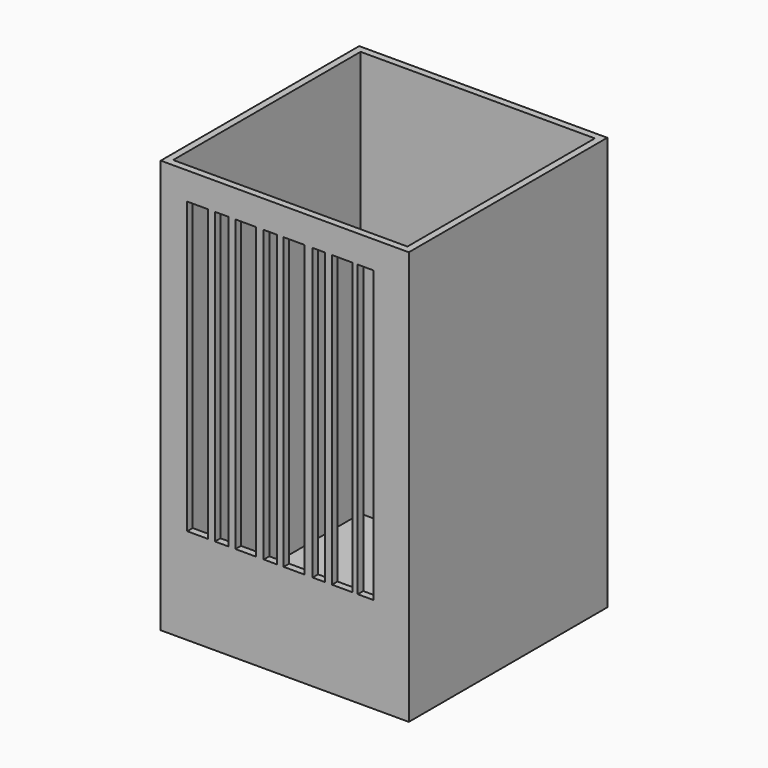
from build123d import *

# Parameters (mm, degrees)
F0_W     = 180
F0_H     = 300
F1_DEPTH = 180
F2_T     = -5
F3_W     = 15
F3_H     = 210.58443
F3_W_2   = 9.852498
F3_W_3   = 9.454142
F3_W_4   = 9.030989
F3_W_5   = 11.25
F4_DEPTH = 25


with BuildPart() as f1:
    # F0 (on Front) → F1 (new body)
    with BuildSketch(Plane.XZ):
        with Locations((-52.950007, -2.163574)):
            Rectangle(F0_W, F0_H)
    extrude(amount=F1_DEPTH)

    # F2
    f2_openings = [f1.faces().sort_by_distance(p)[0] for p in [
        (-52.950007, -90, 147.836426),
    ]]
    offset(amount=F2_T, openings=f2_openings)

    # F3 (on face) → F4 (cut)
    with BuildSketch(Plane.XZ.offset(180)):
        with Locations((-116.25, 22.645805)):
            Rectangle(F3_W, F3_H)
        with Locations((-98.676249, 22.645805)):
            Rectangle(F3_W_2, F3_H)
        with Locations((-81.25, 22.645805)):
            Rectangle(F3_W, F3_H)
        with Locations((-63.477071, 22.645805)):
            Rectangle(F3_W_3, F3_H)
        with Locations((-46.25, 22.645808)):
            Rectangle(F3_W, F3_H)
        with Locations((-28.265494, 22.645808)):
            Rectangle(F3_W_4, F3_H)
        with Locations((-11.25, 22.645808)):
            Rectangle(F3_W, F3_H)
        with Locations((5.625, 22.645808)):
            Rectangle(F3_W_5, F3_H)
    extrude(amount=-F4_DEPTH, mode=Mode.SUBTRACT)


solid = f1.part
